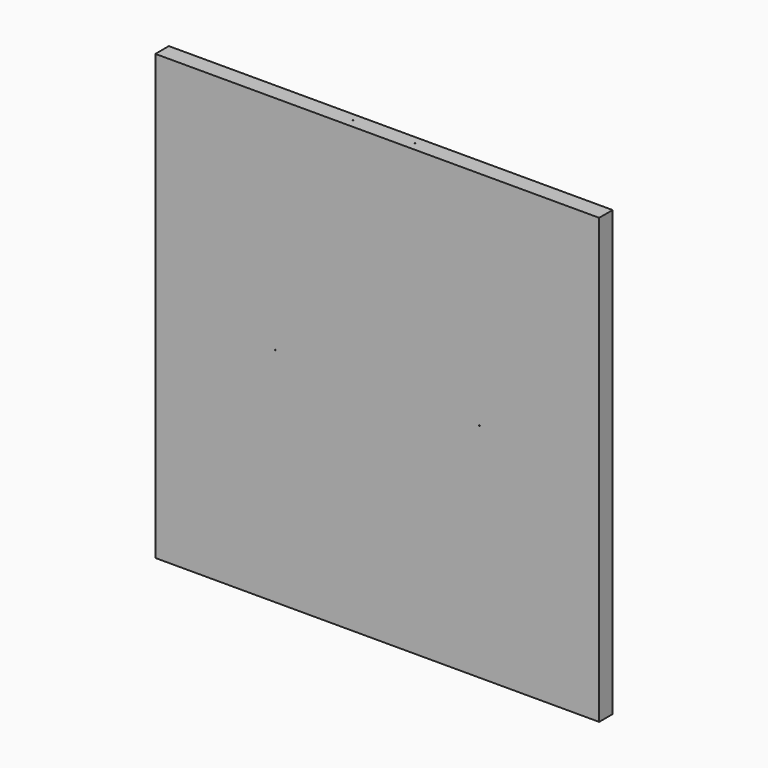
from build123d import *

# Parameters (mm, degrees)
F0_W     = 500
F0_H     = 500
F0_R     = 0.5
F1_DEPTH = 19
F2_R     = 0.5
F3_DEPTH = 0.5
F4_R     = 0.5
F5_DEPTH = 1


with BuildPart() as f1:
    # F0 (on Front) → F1 (new body)
    with BuildSketch(Plane.XZ):
        with Locations((250, 250)):
            Rectangle(F0_W, F0_H)
        with Locations((135, 250)):
            Circle(F0_R, mode=Mode.SUBTRACT)
        with Locations((365, 250)):
            Circle(F0_R, mode=Mode.SUBTRACT)
    extrude(amount=F1_DEPTH)

    # F2 (on face) → F3 (cut, symmetric)
    with BuildSketch(Plane(origin=(0, 0, 0), x_dir=(1, 0, 0), z_dir=(0, 0, -1))):
        with Locations((250, 9.5)):
            Circle(F2_R)
        with Locations((215, 9.5)):
            Circle(F2_R)
        with Locations((285, 9.5)):
            Circle(F2_R)
    extrude(amount=F3_DEPTH, both=True, mode=Mode.SUBTRACT)

    # F4 (on face) → F5 (cut)
    with BuildSketch(Plane.XY.offset(500)):
        with Locations((215, -9.5)):
            Circle(F4_R)
        with Locations((285, -9.5)):
            Circle(F4_R)
    extrude(amount=-F5_DEPTH, mode=Mode.SUBTRACT)


solid = f1.part
